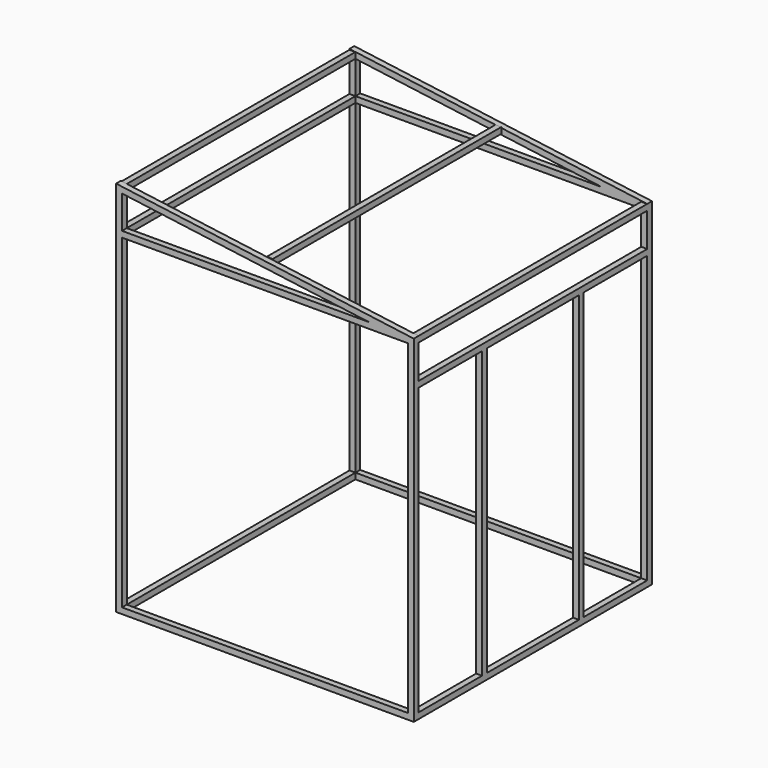
from build123d import *

# Parameters (mm, degrees)
F1_DEPTH = 30
F2_W     = 30
F2_H     = 30
F3_DEPTH = 1440
F4_W     = 1440
F4_H     = 1640
F5_DEPTH = 30
F7_DEPTH = 30


with BuildPart() as f1:
    # F0 (on Front) → F1 (new body)
    with BuildSketch(Plane.XZ):
        Polygon((0, 1700), (0, 0), (1500, 0), (1500, 1700), (0, 1900), align=None)
        Polygon((30, 1500), (30, 1670), (1470, 1670), (1470, 30), (30, 30), align=None, mode=Mode.SUBTRACT)
        Polygon((30, 1865.734508), (1273.008811, 1700), (30, 1700), align=None, mode=Mode.SUBTRACT)
    extrude(amount=F1_DEPTH)

    # F2 (on face) → F3 (join)
    with BuildSketch(Plane.XZ.offset(30)):
        with Locations((15, 15)):
            Rectangle(F2_W, F2_H)
        with Locations((1485, 15)):
            Rectangle(F2_W, F2_H)
        with Locations((15, 1685)):
            Rectangle(F2_W, F2_H)
        with Locations((1485, 1685)):
            Rectangle(F2_W, F2_H)
        with Locations((15, 1880.734508)):
            Rectangle(F2_W, F2_H)
        with Locations((750, 1787)):
            Rectangle(F2_W, F2_H)
    extrude(amount=F3_DEPTH)

    # F4 (on face) → F5 (join)
    with BuildSketch(Plane.XZ.offset(1470)):
        Polygon((0, 1900), (0, 0), (1500, 0), (1500, 1670), (1500, 1700), align=None)
        with Locations((750, 850)):
            Rectangle(F4_W, F4_H, mode=Mode.SUBTRACT)
        Polygon((30, 1700), (30, 1865.734508), (1273.008811, 1700), align=None, mode=Mode.SUBTRACT)
    extrude(amount=F5_DEPTH)

    # F6 (on face) → F7 (join)
    with BuildSketch(Plane.YZ.offset(1500)):
        Polygon((-1070, 1470), (-1070, 30), (-1040, 30), (-1040, 1470), (-460, 1470), (-460, 30), (-430, 30), (-430, 1470), (-30, 1470), (-30, 1500), (-1470, 1500), (-1470, 1470), align=None)
    extrude(amount=-F7_DEPTH)


solid = f1.part
